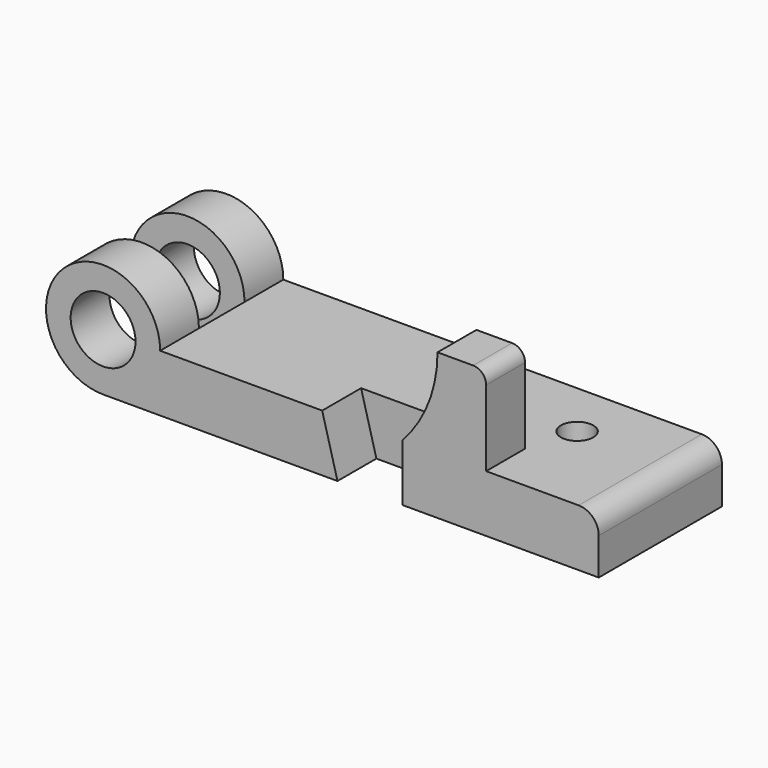
from build123d import *

# Parameters (mm, degrees)
F0_R          = 12.7
F1_DEPTH      = 30.1625
F2_W          = 44.8737880948
F2_H          = 22.3266
F3_DEPTH      = 22.353
F3_DEPTH_BACK = 22.353
F5_DEPTH      = 19.05
F7_DEPTH      = 19.05
F8_R          = 6.35
F9_DEPTH      = 22.353
F10_R         = 7.874
F11_R         = 5.08


with BuildPart() as f1:
    # F0 (on Front) → F1 (new body, symmetric)
    with BuildSketch(Plane.XZ):
        with BuildLine():
            Line((194.2084, 0), (22.352, 0))
            ThreePointArc((22.352, 0), (-15.8052507731, 15.8052507731), (0, -22.352))
            Line((0, -22.352), (194.2084, -22.352))
            Line((194.2084, -22.352), (194.2084, 0))
        make_face()
        Circle(F0_R, mode=Mode.SUBTRACT)
    extrude(amount=F1_DEPTH, both=True)

    # F2 (on face) → F3 (cut, two sides)
    with BuildSketch(Plane.XY) as f3_sk:
        with Locations((-0.0848940474, 0)):
            Rectangle(F2_W, F2_H)
    extrude(amount=-F3_DEPTH, mode=Mode.SUBTRACT)
    extrude(f3_sk.sketch, amount=F3_DEPTH_BACK, mode=Mode.SUBTRACT)

    # F4 (on face) → F5 (cut)
    with BuildSketch(Plane.XZ.offset(30.1625)):
        Polygon((117.2464, 0), (85.852, 0), (91.8464, -22.352), (117.2464, -22.352), align=None)
    extrude(amount=-F5_DEPTH, mode=Mode.SUBTRACT)

    # F6 (on face) → F7 (join)
    with BuildSketch(Plane.XZ.offset(30.1625)):
        with BuildLine():
            Line((150.0886, 34.798), (131.0386, 34.798))
            ThreePointArc((131.0386, 34.798), (127.4644153616, 16.0823576341), (117.2464, 0))
            Line((117.2464, 0), (150.0886, 0))
            Line((150.0886, 0), (150.0886, 34.798))
        make_face()
    extrude(amount=-F7_DEPTH)

    # F8 (on face) → F9 (cut, through all)
    with BuildSketch(Plane.XY):
        with Locations((155.3464, 7.8105)):
            Circle(F8_R)
    extrude(amount=-F9_DEPTH, mode=Mode.SUBTRACT)

    # F10
    f10_edges = [f1.edges().sort_by_distance(p)[0] for p in [
        (194.2084, 0, 0),
    ]]
    fillet(f10_edges, radius=F10_R)

    # F11
    f11_edges = [f1.edges().sort_by_distance(p)[0] for p in [
        (150.0886, -20.6375, 34.798),
    ]]
    fillet(f11_edges, radius=F11_R)


solid = f1.part
